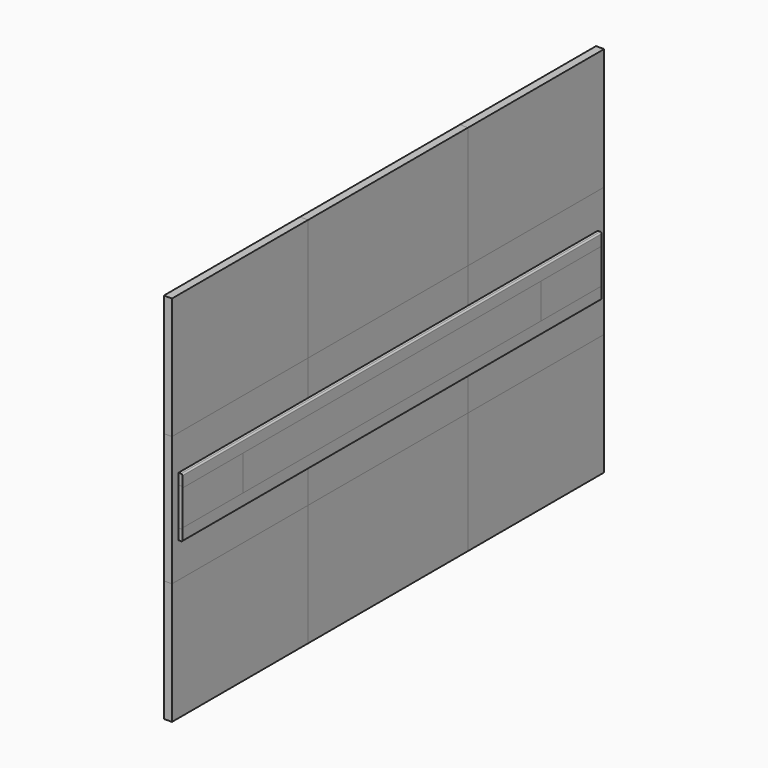
from build123d import *

# Parameters (mm, degrees)
F1_DEPTH      = 196.85
F2_DEPTH      = 615.95
F4_DEPTH      = 196.85
F4_DEPTH_BACK = 196.85
F5_DEPTH      = 615.95
F5_DEPTH_BACK = 615.95
F7_DEPTH      = 438.15
F8_W          = 1270
F8_H          = 876.3
F9_DEPTH      = 9.525
F10_W         = 469.9
F10_H         = 876.3
F11_DEPTH     = 19.05
F12_W         = 1270
F12_H         = 304.8
F13_DEPTH     = 19.05
F14_W         = 469.9
F14_H         = 304.8
F15_DEPTH     = 19.05
F16_W         = 1231.9
F16_H         = 50.8
F17_DEPTH     = 19.05


with BuildPart() as f1:
    # F0 (on Front) → F1 (new body, symmetric)
    with BuildSketch(Plane.XZ):
        with BuildLine():
            ThreePointArc((19.05, 66.675), (18.1200640303, 68.9200640303), (15.875, 69.85))
            Line((15.875, 69.85), (-15.875, 69.85))
            ThreePointArc((-15.875, 69.85), (-18.1200640303, 68.9200640303), (-19.05, 66.675))
            Line((-19.05, 66.675), (-19.05, -66.675))
            ThreePointArc((-19.05, -66.675), (-18.1200640303, -68.9200640303), (-15.875, -69.85))
            Line((-15.875, -69.85), (15.875, -69.85))
            ThreePointArc((15.875, -69.85), (18.1200640303, -68.9200640303), (19.05, -66.675))
            Line((19.05, -66.675), (19.05, 66.675))
        make_face()
    extrude(amount=F1_DEPTH, both=True)


with BuildPart() as f2:
    # F0 (on Front) → F2 (new body, symmetric)
    with BuildSketch(Plane.XZ):
        with BuildLine():
            ThreePointArc((19.05, 66.675), (18.1200640303, 68.9200640303), (15.875, 69.85))
            Line((15.875, 69.85), (-15.875, 69.85))
            ThreePointArc((-15.875, 69.85), (-18.1200640303, 68.9200640303), (-19.05, 66.675))
            Line((-19.05, 66.675), (-19.05, -66.675))
            ThreePointArc((-19.05, -66.675), (-18.1200640303, -68.9200640303), (-15.875, -69.85))
            Line((-15.875, -69.85), (15.875, -69.85))
            ThreePointArc((15.875, -69.85), (18.1200640303, -68.9200640303), (19.05, -66.675))
            Line((19.05, -66.675), (19.05, 66.675))
        make_face()
    extrude(amount=F2_DEPTH, both=True)


with BuildPart() as f4:
    # F3 (on Front) → F4 (new body, two sides)
    with BuildSketch(Plane.XZ) as f4_sk:
        with BuildLine():
            ThreePointArc((19.05, 41.275), (18.1200640303, 43.5200640303), (15.875, 44.45))
            Line((15.875, 44.45), (-15.875, 44.45))
            ThreePointArc((-15.875, 44.45), (-18.1200640303, 43.5200640303), (-19.05, 41.275))
            Line((-19.05, 41.275), (-19.05, -41.275))
            ThreePointArc((-19.05, -41.275), (-18.1200640303, -43.5200640303), (-15.875, -44.45))
            Line((-15.875, -44.45), (15.875, -44.45))
            ThreePointArc((15.875, -44.45), (18.1200640303, -43.5200640303), (19.05, -41.275))
            Line((19.05, -41.275), (19.05, 41.275))
        make_face()
    extrude(amount=F4_DEPTH)
    extrude(f4_sk.sketch, amount=-F4_DEPTH_BACK)


with BuildPart() as f5:
    # F3 (on Front) → F5 (new body, two sides)
    with BuildSketch(Plane.XZ) as f5_sk:
        with BuildLine():
            ThreePointArc((19.05, 41.275), (18.1200640303, 43.5200640303), (15.875, 44.45))
            Line((15.875, 44.45), (-15.875, 44.45))
            ThreePointArc((-15.875, 44.45), (-18.1200640303, 43.5200640303), (-19.05, 41.275))
            Line((-19.05, 41.275), (-19.05, -41.275))
            ThreePointArc((-19.05, -41.275), (-18.1200640303, -43.5200640303), (-15.875, -44.45))
            Line((-15.875, -44.45), (15.875, -44.45))
            ThreePointArc((15.875, -44.45), (18.1200640303, -43.5200640303), (19.05, -41.275))
            Line((19.05, -41.275), (19.05, 41.275))
        make_face()
    extrude(amount=F5_DEPTH)
    extrude(f5_sk.sketch, amount=-F5_DEPTH_BACK)


with BuildPart() as f7:
    # F3 (on Front) → F7 (new body, symmetric)
    with BuildSketch(Plane.XZ):
        with BuildLine():
            ThreePointArc((19.05, 41.275), (18.1200640303, 43.5200640303), (15.875, 44.45))
            Line((15.875, 44.45), (-15.875, 44.45))
            ThreePointArc((-15.875, 44.45), (-18.1200640303, 43.5200640303), (-19.05, 41.275))
            Line((-19.05, 41.275), (-19.05, -41.275))
            ThreePointArc((-19.05, -41.275), (-18.1200640303, -43.5200640303), (-15.875, -44.45))
            Line((-15.875, -44.45), (15.875, -44.45))
            ThreePointArc((15.875, -44.45), (18.1200640303, -43.5200640303), (19.05, -41.275))
            Line((19.05, -41.275), (19.05, 41.275))
        make_face()
    extrude(amount=F7_DEPTH, both=True)


with BuildPart() as f9:
    # F8 (on Right) → F9 (new body, symmetric)
    with BuildSketch(Plane.YZ):
        Rectangle(F8_W, F8_H)
    extrude(amount=F9_DEPTH, both=True)


with BuildPart() as f11:
    # F10 (on face) → F11 (new body)
    with BuildSketch(Plane.YZ.offset(9.525)):
        Rectangle(F10_W, F10_H)
    extrude(amount=-F11_DEPTH)


with BuildPart() as f13:
    # F12 (on face) → F13 (new body)
    with BuildSketch(Plane.YZ.offset(9.525)):
        Rectangle(F12_W, F12_H)
    extrude(amount=-F13_DEPTH)


with BuildPart() as f15:
    # F14 (on face) → F15 (new body)
    with BuildSketch(Plane.YZ.offset(9.525)):
        Rectangle(F14_W, F14_H)
    extrude(amount=-F15_DEPTH)


with BuildPart() as f17:
    # F16 (on face) → F17 (new body)
    with BuildSketch(Plane.YZ.offset(9.525)):
        Rectangle(F16_W, F16_H)
    extrude(amount=-F17_DEPTH)


solid = Compound([f1.part, f2.part, f4.part, f5.part, f7.part, f9.part, f11.part, f13.part, f15.part, f17.part])
